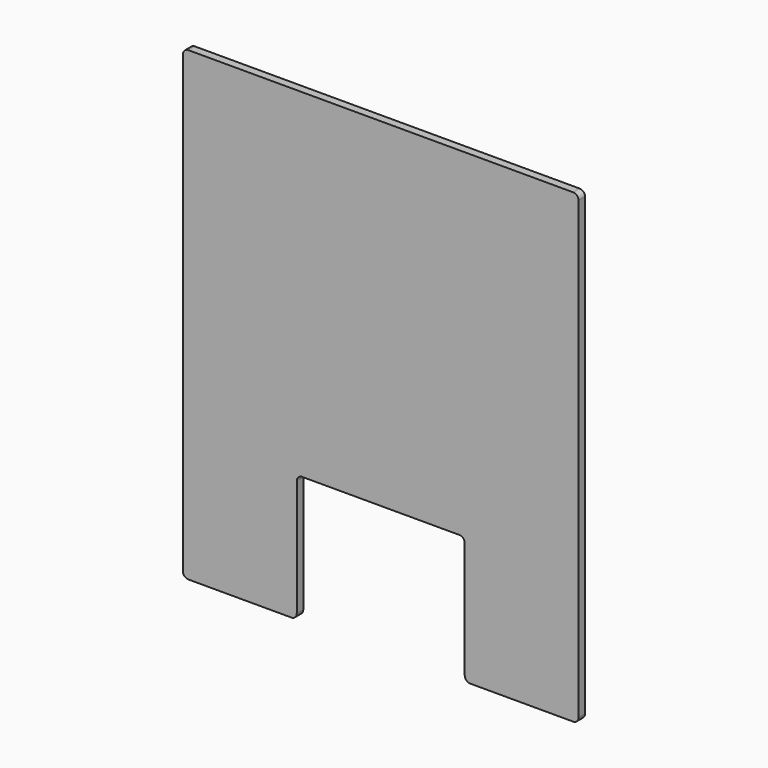
from build123d import *

# Parameters (mm, degrees)
F1_DEPTH = 1.5
F3_R     = 2


with BuildPart() as f1:
    # F0 (on Front) → F1 (new body, symmetric)
    with BuildSketch(Plane.XZ):
        Polygon((0, 47), (0, 172), (-73, 172), (-73, 0), (-31, 0), (-31, 47), align=None)
    extrude(amount=F1_DEPTH, both=True)

    # F2: F1 across plane


with BuildPart() as f1_1:
    add(f1.part)
    add(f1.part.mirror(Plane.YZ))

    # F3
    f3_edges = [f1_1.edges().sort_by_distance(p)[0] for p in [
        (73, 0, 172),
        (-73, 0, 172),
        (-31, 0, 0),
        (-73, 0, 0),
        (-31, 0, 47),
        (31, 0, 0),
        (31, 0, 47),
        (73, 0, 0),
    ]]
    fillet(f3_edges, radius=F3_R)


solid = f1_1.part
